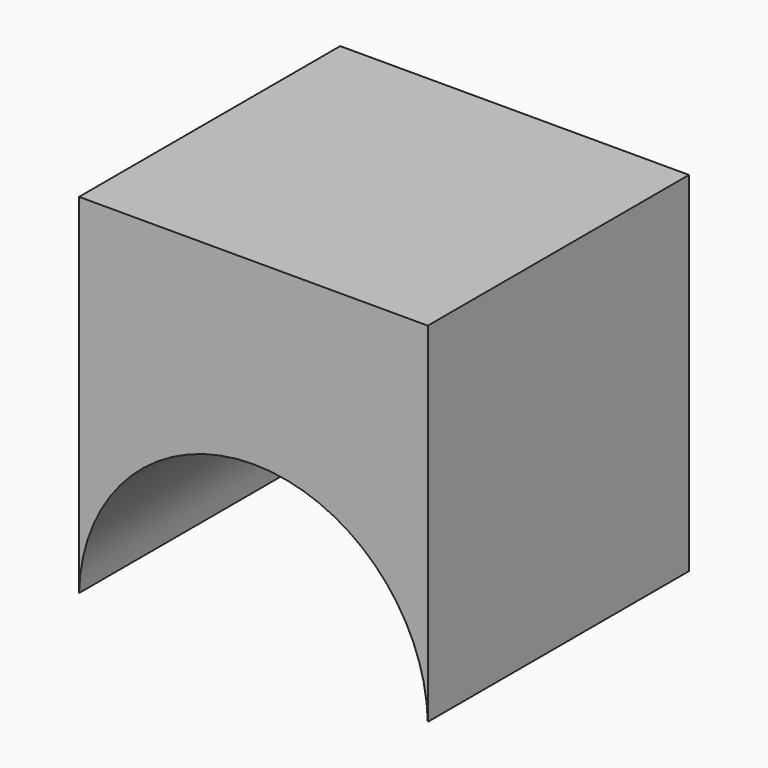
from build123d import *

# Parameters (mm, degrees)
F0_W     = 135.67704
F0_H     = 138.996304
F1_DEPTH = 127
F3_DEPTH = 127


with BuildPart() as f1:
    # F0 (on Front) → F1 (new body)
    with BuildSketch(Plane.XZ):
        Rectangle(F0_W, F0_H)
    extrude(amount=F1_DEPTH)

    # F2 (on face) → F3 (cut)
    with BuildSketch(Plane.XZ.offset(127)):
        with BuildLine():
            Line((-67.83852, -69.498152), (67.83852, -69.498152))
            Line((67.83852, -69.498152), (67.83852, -66.21852))
            ThreePointArc((67.83852, -66.21852), (0, 0), (-67.83852, -66.21852))
            Line((-67.83852, -66.21852), (-67.83852, -69.498152))
        make_face()
    extrude(amount=-F3_DEPTH, mode=Mode.SUBTRACT)


solid = f1.part
